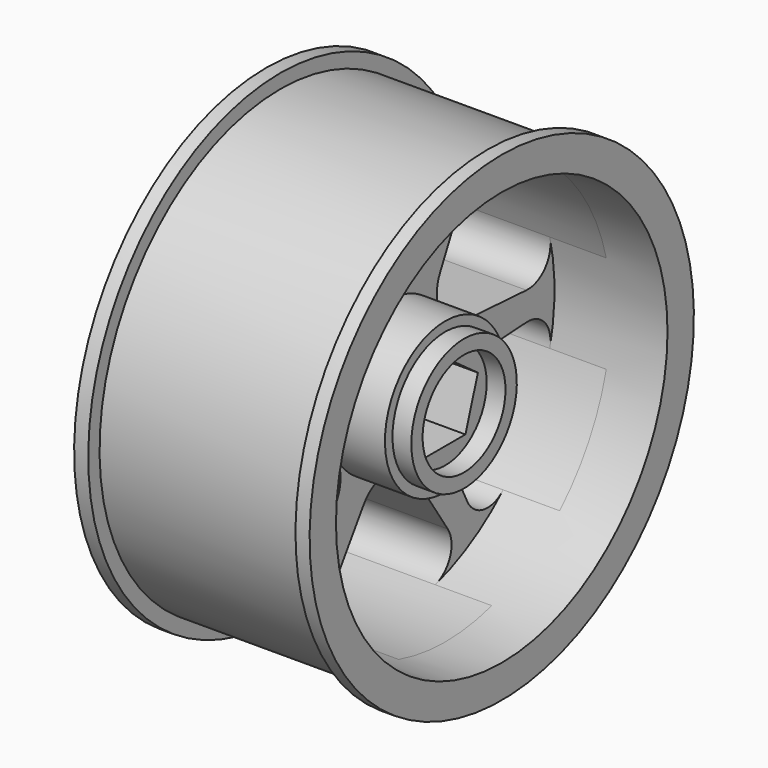
from build123d import *

# Parameters (mm, degrees)
POCKET_DEPTH       = 171.670578
POLARPATTERN_COUNT = 6
SKETCH002_R        = 5.5
POCKET001_DEPTH    = 2
POCKET002_DEPTH    = 7
SKETCH004_R        = 1.6
POCKET003_DEPTH    = 12.001


with BuildPart() as part:
    # Sketch → Revolution (revolve)
    with BuildSketch(Plane.XZ):
        Polygon((-19, 25.5), (-17.5, 25.5), (-17.5, 24), (4.5, 24), (4.5, 25.5), (6, 25.5), (6, 22), (-6, 22), (-6, 8), (0, 8), (0, 7), (2, 7), (2, 0), (0, 0), (-8, 0), (-8, 8), (-19, 22), align=None)
    revolve(axis=Axis((0, 0, 0), (1, 0, 0)))

    # Sketch001 → Pocket (cut, through all)
    with BuildSketch(Plane.YZ):
        with BuildLine():
            ThreePointArc((-3.347258, 9.797621), (0, 8), (3.347258, 9.797621))
            Line((3.347258, 9.797621), (7.839145, 16.577798))
            ThreePointArc((7.839145, 16.577798), (8.155859, 19.264629), (6.181072, 21.113843))
            ThreePointArc((6.181072, 21.113843), (0, 22), (-6.181072, 21.113843))
            ThreePointArc((-6.181072, 21.113843), (-8.155859, 19.264629), (-7.839145, 16.577798))
            Line((-7.839145, 16.577798), (-3.347258, 9.797621))
        make_face()
    pocket = extrude(amount=-POCKET_DEPTH, mode=Mode.SUBTRACT)

    # PolarPattern: Pocket ×6 about axis
    polarpattern_axis = Axis((0, 0, 0), (1, 0, 0))
    for i in range(1, POLARPATTERN_COUNT):
        add(pocket.rotate(polarpattern_axis, i * 360 / POLARPATTERN_COUNT), mode=Mode.SUBTRACT)

    # Sketch002 (on Face73 of PolarPattern) → Pocket001 (cut)
    with BuildSketch(Plane.YZ.offset(2)):
        Circle(SKETCH002_R)
    extrude(amount=-POCKET001_DEPTH, mode=Mode.SUBTRACT)

    # Sketch003 (on Face75 of Pocket001) → Pocket002 (cut)
    with BuildSketch(Plane.YZ):
        Polygon((0, 4.560488), (-4.337282, 1.409268), (-2.680587, -3.689512), (2.680587, -3.689512), (4.337282, 1.409268), align=None)
    extrude(amount=-POCKET002_DEPTH, mode=Mode.SUBTRACT)

    # Sketch004 (on Face81 of Pocket002) → Pocket003 (cut, through all)
    with BuildSketch(Plane.YZ.offset(-7)):
        Circle(SKETCH004_R)
    extrude(amount=-POCKET003_DEPTH, mode=Mode.SUBTRACT)


solid = part.part
